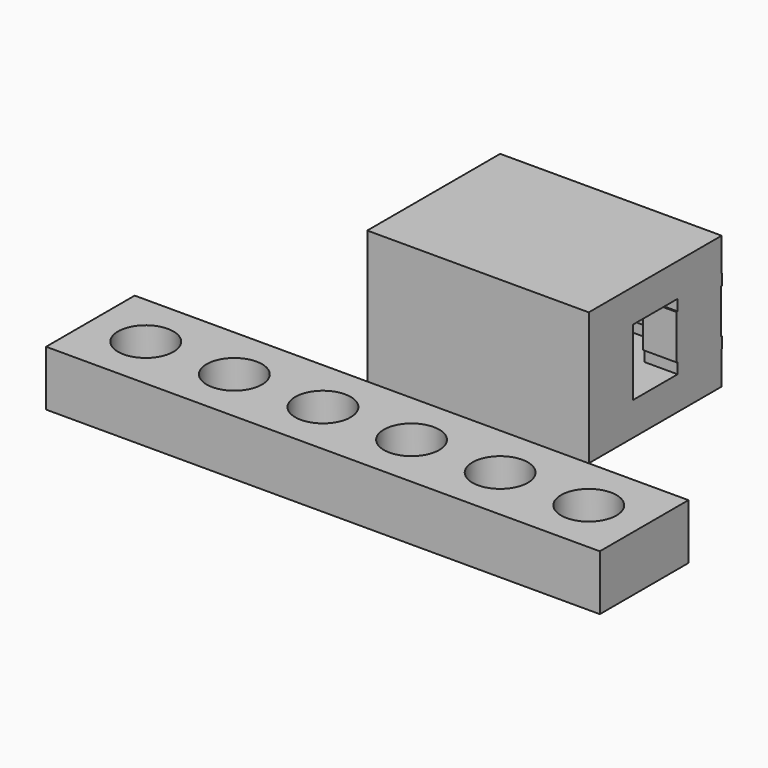
from build123d import *

# Parameters (mm, degrees)
SKETCH_W            = 50
SKETCH_H            = 10
PAD_DEPTH           = 5
SKETCH001_R         = 2.5
POCKET_DEPTH        = 5.001
LINEARPATTERN_COUNT = 6
LINEARPATTERN_PITCH = 8
SKETCH002_W         = 20
SKETCH002_H         = 15
PAD001_DEPTH        = 3
PAD002_DEPTH        = 1
PAD003_DEPTH        = 4
PAD004_DEPTH        = 1
SKETCH007_W         = 20
SKETCH007_H         = 15
PAD005_DEPTH        = 3
PAD006_DEPTH        = 1
PAD007_DEPTH        = 4
PAD008_DEPTH        = 1


with BuildPart() as body:
    # Sketch → Pad (new body)
    with BuildSketch(Plane.XY):
        Rectangle(SKETCH_W, SKETCH_H)
    extrude(amount=PAD_DEPTH)

    # Sketch001 → Pocket (cut, through all)
    with BuildSketch(Plane.XY):
        with Locations((-20, 0)):
            Circle(SKETCH001_R)
    pocket = extrude(amount=POCKET_DEPTH, mode=Mode.SUBTRACT)

    # LinearPattern: Pocket ×6
    with Locations(*[(i * LINEARPATTERN_PITCH, 0, 0) for i in range(1, LINEARPATTERN_COUNT)]):
        add(pocket, mode=Mode.SUBTRACT)


with BuildPart() as body001:
    # Sketch002 → Pad001 (new body)
    with BuildSketch(Plane.XY):
        with Locations((0, 20)):
            Rectangle(SKETCH002_W, SKETCH002_H)
    extrude(amount=PAD001_DEPTH)

    # Sketch003 (on DatumPlane) → Pad002 (join)
    with BuildSketch(Plane.XY.offset(3)):
        Polygon((-10, 12.5), (10, 12.5), (10, 17.5), (7, 17.5), (7, 14.5), (-7, 14.5), (-7, 17.5), (-10, 17.5), align=None)
    extrude(amount=PAD002_DEPTH)

    # Sketch005 (on DatumPlane) → Pad003 (join)
    with BuildSketch(Plane.XY.offset(4)):
        with BuildLine():
            Line((-10, 12.5), (10, 12.5))
            Line((10, 12.5), (10, 17.5))
            Line((7, 17.5), (10, 17.5))
            Line((2.449396, 17.645579), (7, 17.5))
            ThreePointArc((2.449396, 17.645579), (-2.384371, 18.263272), (2.214812, 16.652572))
            Line((7, 16.499488), (2.214812, 16.652572))
            Line((7, 16.499488), (7, 14.5))
            Line((-7, 14.5), (7, 14.5))
            Line((-7, 17.5), (-7, 14.5))
            Line((-10, 17.5), (-7, 17.5))
            Line((-10, 17.5), (-10, 12.5))
        make_face()
    extrude(amount=PAD003_DEPTH)

    # Sketch006 (on DatumPlane) → Pad004 (join)
    with BuildSketch(Plane.XY.offset(8)):
        Polygon((-10, 12.5), (10, 12.5), (10, 17.5), (7, 17.5), (7, 14.5), (-7, 14.5), (-7, 17.5), (-10, 17.5), align=None)
    extrude(amount=PAD004_DEPTH)

    # Sketch007 (on DatumPlane) → Pad005 (join)
    with BuildSketch(Plane.XY.offset(9)):
        with Locations((0, 20)):
            Rectangle(SKETCH007_W, SKETCH007_H)
    extrude(amount=PAD005_DEPTH)

    # Sketch008 (on DatumPlane) → Pad006 (join)
    with BuildSketch(Plane.XY.offset(3)):
        Polygon((10, 27.529465), (-10, 27.529465), (-10, 22.529465), (-7, 22.529465), (-7, 25.529465), (7, 25.529465), (7, 22.529465), (10, 22.529465), align=None)
    extrude(amount=PAD006_DEPTH)

    # Sketch009 (on DatumPlane) → Pad007 (join)
    with BuildSketch(Plane.XY.offset(4)):
        with BuildLine():
            Line((10, 27.4), (-10, 27.4))
            Line((-10, 27.4), (-10, 22.4))
            Line((-7, 22.4), (-10, 22.4))
            Line((-2.449395, 22.254421), (-7, 22.4))
            ThreePointArc((-2.449395, 22.254421), (2.384372, 21.636728), (-2.214812, 23.247428))
            Line((-7, 23.400512), (-2.214812, 23.247428))
            Line((-7, 23.400512), (-7, 25.4))
            Line((7, 25.4), (-7, 25.4))
            Line((7, 22.4), (7, 25.4))
            Line((10, 22.4), (7, 22.4))
            Line((10, 22.4), (10, 27.4))
        make_face()
    extrude(amount=PAD007_DEPTH)

    # Sketch010 (on DatumPlane) → Pad008 (join)
    with BuildSketch(Plane.XY.offset(8)):
        Polygon((10, 27.529465), (-10, 27.529465), (-10, 22.529465), (-7, 22.529465), (-7, 25.529465), (7, 25.529465), (7, 22.529465), (10, 22.529465), align=None)
    extrude(amount=PAD008_DEPTH)


solid = Compound([body.part, body001.part])
